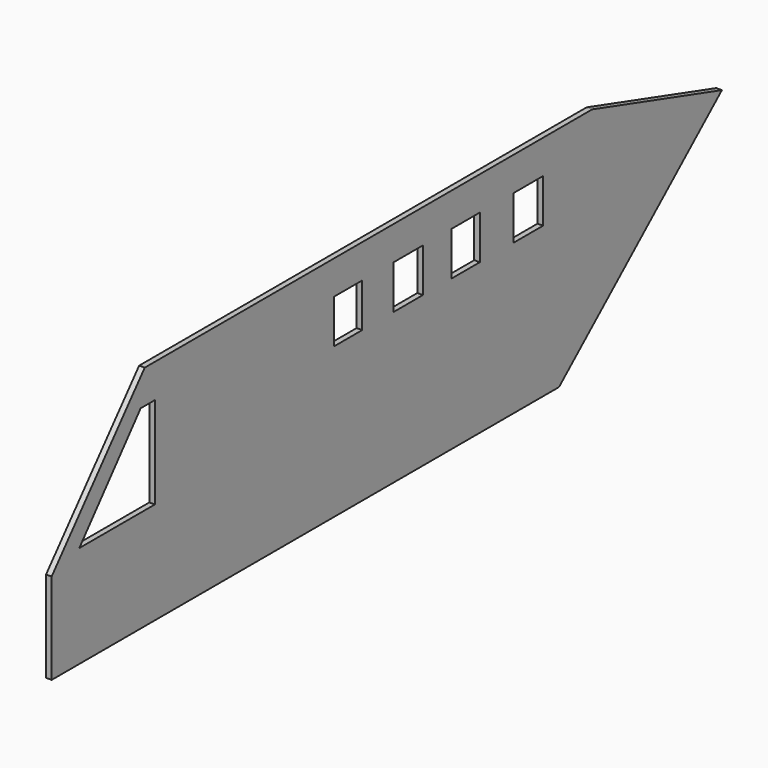
from build123d import *

# Parameters (mm, degrees)
F1_DEPTH = 1.5
F2_W     = 9.488664
F2_H     = 11.803286
F2_W_2   = 9.919964
F2_W_3   = 9.919956
F3_DEPTH = 1.5


with BuildPart() as f1:
    # F0 (on Right) → F1 (new body)
    with BuildSketch(Plane.YZ):
        Polygon((-80.233574, -9.394377), (-80.233574, -33.967704), (90.941433, -33.967704), (145.892367, 14.248275), (102.09786, 27.465614), (-48.834328, 27.465614), align=None)
    extrude(amount=F1_DEPTH)

    # F2 (on face) → F3 (cut)
    with BuildSketch(Plane.YZ.offset(1.5)):
        Polygon((-50.199509, 18.364381), (-70.904814, -6.436477), (-45.421362, -6.436477), (-45.421362, 18.364381), align=None)
        with Locations((19.782484, 12.462738)):
            Rectangle(F2_W, F2_H)
        with Locations((40.053718, 12.462738)):
            Rectangle(F2_W_2, F2_H)
        with Locations((59.46235, 12.462738)):
            Rectangle(F2_W, F2_H)
        with Locations((80.596194, 12.462738)):
            Rectangle(F2_W_3, F2_H)
    extrude(amount=-F3_DEPTH, mode=Mode.SUBTRACT)


solid = f1.part
